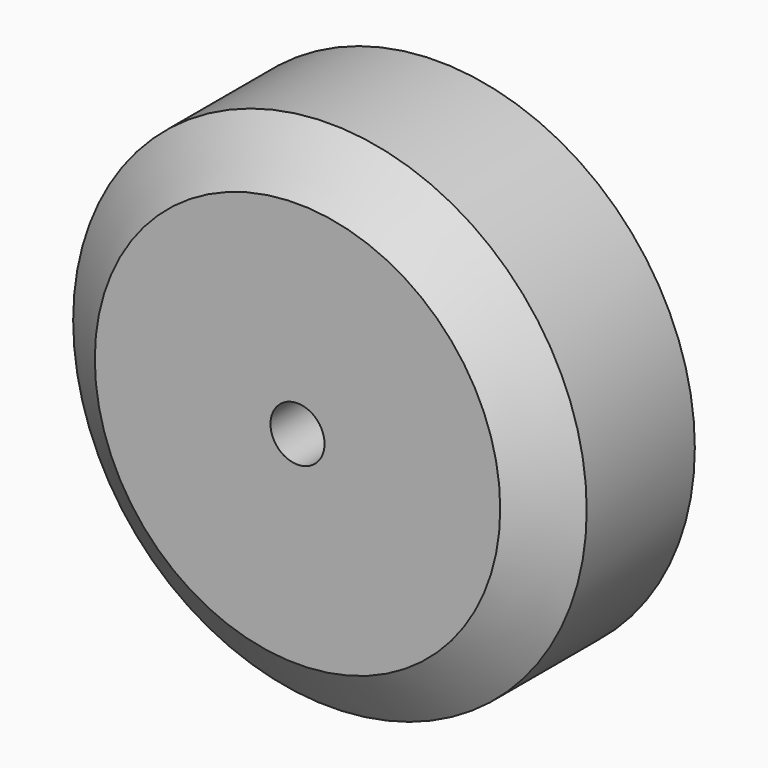
from build123d import *

# Parameters (mm, degrees)
F0_R       = 120.65
F1_DEPTH   = 101.6
F2_SIZE2   = 19.05
F2_SIZE    = 25.4
F2_2_SIZE2 = 19.05
F2_2_SIZE  = 25.4
F3_R       = 12.7
F4_DEPTH   = 101.6


with BuildPart() as f1:
    # F0 (on Front) → F1 (new body)
    with BuildSketch(Plane.XZ):
        Circle(F0_R)
    extrude(amount=F1_DEPTH)

    # F2
    f2_edges = [f1.edges().sort_by_distance(p)[0] for p in [
        (-120.65, -101.6, 0),
    ]]
    f2_side = f1.faces().sort_by_distance((0, -101.6, 0))[0]
    chamfer(f2_edges, length=F2_SIZE, length2=F2_SIZE2, reference=f2_side)

    # F2#2
    f2_2_edges = [f1.edges().sort_by_distance(p)[0] for p in [
        (-120.65, 0, 0),
    ]]
    f2_2_side = f1.faces().sort_by_distance((0, 0, 0))[0]
    chamfer(f2_2_edges, length=F2_2_SIZE, length2=F2_2_SIZE2, reference=f2_2_side)

    # F3 (on face) → F4 (cut, through all)
    with BuildSketch(Plane.XZ.offset(101.6)):
        Circle(F3_R)
    extrude(amount=-F4_DEPTH, mode=Mode.SUBTRACT)


solid = f1.part
